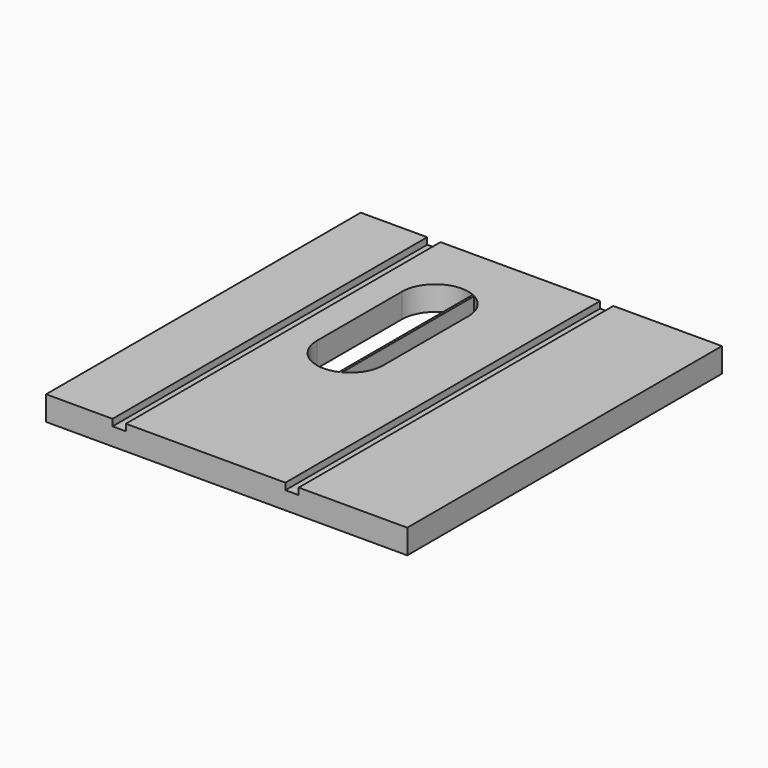
from build123d import *

# Parameters (mm, degrees)
SKETCH_W        = 517.525
SKETCH_H        = 563.5625
PAD_DEPTH       = 34.925
SKETCH001_W     = 19.05
SKETCH001_H     = 563.5625
POCKET_DEPTH    = 9.525
POCKET001_DEPTH = 34.926
SKETCH003_W     = 3.175
SKETCH003_H     = 563.5625
PAD001_DEPTH    = 34.925


with BuildPart() as part:
    # Sketch → Pad (new body)
    with BuildSketch(Plane.XY):
        Rectangle(SKETCH_W, SKETCH_H)
    extrude(amount=PAD_DEPTH)

    # Sketch001 (on Face6 of Pad) → Pocket (cut)
    with BuildSketch(Plane.XY.offset(34.925)):
        with Locations((-153.9875, 0)):
            Rectangle(SKETCH001_W, SKETCH001_H)
        with Locations((93.6625, 0)):
            Rectangle(SKETCH001_W, SKETCH001_H)
    extrude(amount=-POCKET_DEPTH, mode=Mode.SUBTRACT)

    # Sketch002 (on Face9 of Pocket) → Pocket001 (cut, through all)
    with BuildSketch(Plane.XY.offset(34.925)):
        with BuildLine():
            ThreePointArc((-7.9375, 161.13125), (-55.5625, 208.75625), (-103.1875, 161.13125))
            Line((-103.1875, 161.13125), (-103.1875, 8.73125))
            ThreePointArc((-103.1875, 8.73125), (-55.5625, -38.89375), (-7.9375, 8.73125))
            Line((-7.9375, 8.73125), (-7.9375, 161.13125))
        make_face()
    extrude(amount=-POCKET001_DEPTH, mode=Mode.SUBTRACT)

    # Sketch003 (on Face9 of Pocket001) → Pad001 (join)
    with BuildSketch(Plane.XY.offset(34.925)):
        with Locations((-34.925, 0)):
            Rectangle(SKETCH003_W, SKETCH003_H)
    extrude(amount=-PAD001_DEPTH)


solid = part.part
